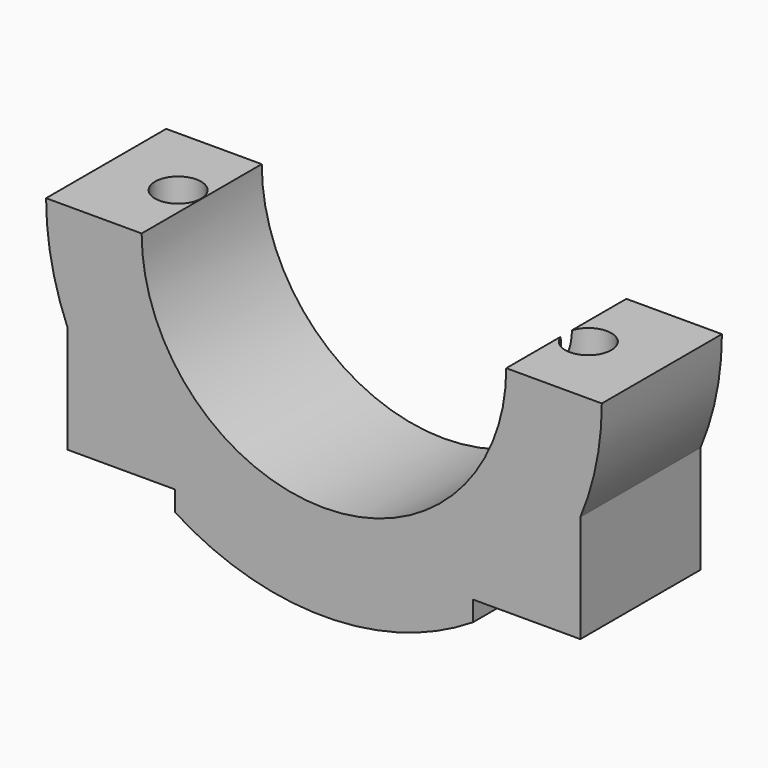
from build123d import *

# Parameters (mm, degrees)
F0_R          = 25.91
F1_DEPTH      = 7
F1_DEPTH_BACK = 7
F2_R          = 17
F3_DEPTH      = 7
F3_DEPTH_BACK = 7
F6_START      = -6
F5_W          = 8
F5_H          = 14
F6_DEPTH      = 14
F7_R          = 2.15
F8_DEPTH      = 30
F8_DEPTH_BACK = 30
F9_W          = 10
F9_H          = 14
F10_DEPTH     = 10
F11_W         = 75.513869524
F11_H         = 46.2215282023
F12_DEPTH     = 30


with BuildPart() as f1:
    # F0 (on Front) → F1 (new body, two sides)
    with BuildSketch(Plane.XZ) as f1_sk:
        Circle(F0_R)
    extrude(amount=F1_DEPTH)
    extrude(f1_sk.sketch, amount=-F1_DEPTH_BACK)

    # F2 (on Front) → F3 (cut, two sides)
    with BuildSketch(Plane.XZ) as f3_sk:
        Circle(F2_R)
    extrude(amount=-F3_DEPTH, mode=Mode.SUBTRACT)
    extrude(f3_sk.sketch, amount=F3_DEPTH_BACK, mode=Mode.SUBTRACT)

    # F5 (on face) → F6 (join)
    with BuildSketch(Plane.XY.offset(F6_START)):
        with Locations((-19.91, 0)):
            Rectangle(F5_W, F5_H)
        with Locations((19.91, 0)):
            Rectangle(F5_W, F5_H)
    extrude(amount=-F6_DEPTH)

    # F7 (on face) → F8 (cut, two sides)
    with BuildSketch(Plane.XY) as f8_sk:
        with Locations((-19.1982129737, 0)):
            Circle(F7_R)
        with Locations((19.0490627756, 0)):
            Circle(F7_R)
    extrude(amount=F8_DEPTH, mode=Mode.SUBTRACT)
    extrude(f8_sk.sketch, amount=-F8_DEPTH_BACK, mode=Mode.SUBTRACT)

    # F9 (on face) → F10 (cut)
    with BuildSketch(Plane(origin=(0, 0, -20), x_dir=(1, 0, 0), z_dir=(0, 0, -1))):
        with Locations((-18.91, 0)):
            Rectangle(F9_W, F9_H)
        with Locations((18.91, 0)):
            Rectangle(F9_W, F9_H)
    extrude(amount=F10_DEPTH, mode=Mode.SUBTRACT)

    # F11 (on face) → F12 (cut)
    with BuildSketch(Plane.XY):
        Rectangle(F11_W, F11_H)
    extrude(amount=F12_DEPTH, mode=Mode.SUBTRACT)


solid = f1.part
